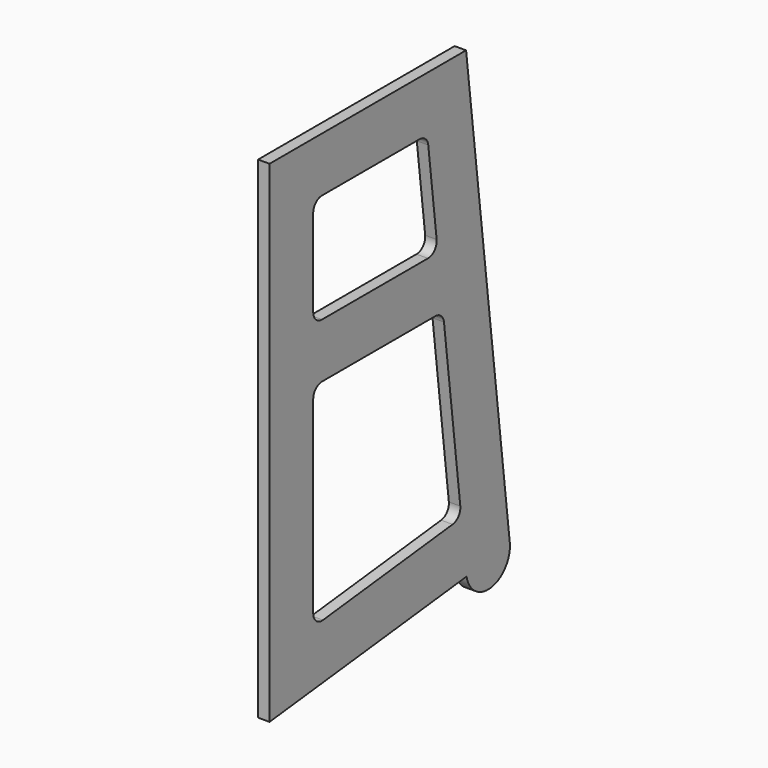
from build123d import *

# Parameters (mm, degrees)
F1_DEPTH = 21
F3_DEPTH = 25


with BuildPart() as f1:
    # F0 (on Right) → F1 (new body)
    with BuildSketch(Plane.YZ):
        with BuildLine():
            Line((0, 900), (0, 0))
            Line((0, 0), (451.150393, 51.120132))
            ThreePointArc((451.150393, 51.120132), (507.774856, 10.553524), (550, 65.95223))
            Line((550, 65.95223), (450, 900))
            Line((450, 900), (0, 900))
        make_face()
    extrude(amount=-F1_DEPTH)

    # F2 (on face) → F3 (cut)
    with BuildSketch(Plane(origin=(-21, 0, 0), x_dir=(0, -1, 0), z_dir=(-1, 0, 0))):
        with BuildLine():
            ThreePointArc((-100, 780), (-105.857864, 794.142136), (-120, 800))
            Line((-120, 800), (-343.528222, 800))
            ThreePointArc((-343.528222, 800), (-356.801921, 794.960245), (-363.386, 782.380892))
            Line((-363.386, 782.380892), (-382.569554, 622.380892))
            ThreePointArc((-382.569554, 622.380892), (-377.672021, 606.726301), (-362.711776, 600))
            Line((-362.711776, 600), (-120, 600))
            ThreePointArc((-120, 600), (-105.857864, 605.857864), (-100, 620))
            Line((-100, 620), (-100, 780))
        make_face()
        with BuildLine():
            Line((-100, 134.365176), (-100, 480))
            ThreePointArc((-100, 480), (-105.857864, 494.142136), (-120, 500))
            Line((-120, 500), (-379.497385, 500))
            ThreePointArc((-379.497385, 500), (-392.771084, 494.960245), (-399.355163, 482.380892))
            Line((-399.355163, 482.380892), (-436.762182, 170.388491))
            ThreePointArc((-436.762182, 170.388491), (-432.589283, 155.598547), (-419.156206, 148.134768))
            Line((-419.156206, 148.134768), (-122.251803, 114.492345))
            ThreePointArc((-122.251803, 114.492345), (-106.677764, 119.448137), (-100, 134.365176))
        make_face()
    extrude(amount=-F3_DEPTH, mode=Mode.SUBTRACT)


solid = f1.part
